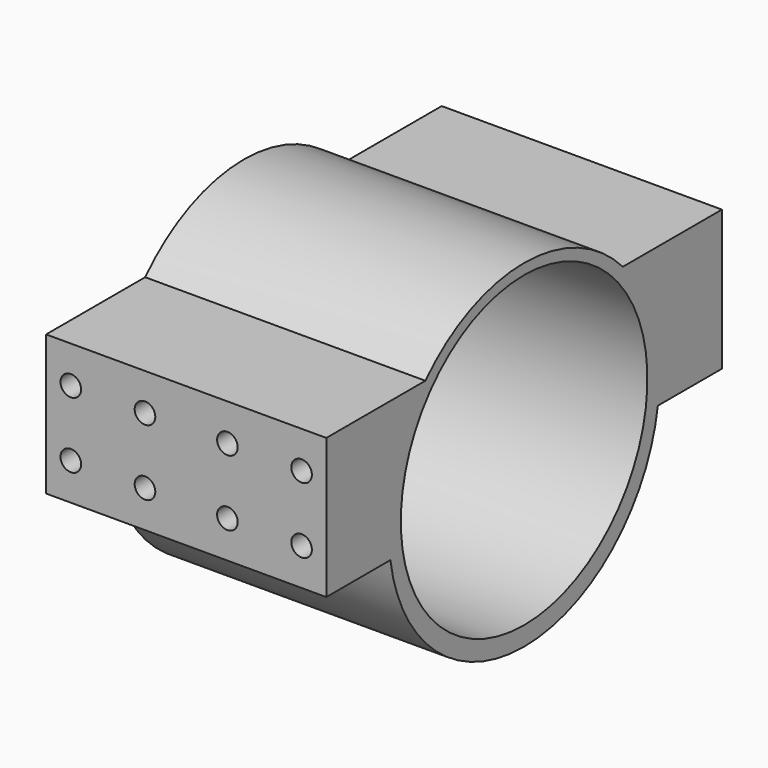
from build123d import *

# Parameters (mm, degrees)
CYLINDER341_R             = 1.25
CYLINDER341_DEPTH         = 10
CYLINDER342_R             = 1.25
CYLINDER342_DEPTH         = 10
CYLINDER343_R             = 1.25
CYLINDER343_DEPTH         = 10
CYLINDER344_R             = 1.25
CYLINDER344_DEPTH         = 10
CYLINDER346_R             = 1.25
CYLINDER346_DEPTH         = 10
CYLINDER345_R             = 1.25
CYLINDER345_DEPTH         = 10
CYLINDER339_R             = 1.25
CYLINDER339_DEPTH         = 10
CYLINDER340_R             = 1.25
CYLINDER340_DEPTH         = 10
BOX234_W                  = 10
BOX234_H                  = 10
BOX234_DEPTH              = 10
CYLINDER335_R             = 1.6
CYLINDER335_DEPTH         = 10
CYLINDER336_R             = 1.6
CYLINDER336_DEPTH         = 10
FUSION285_PLACEMENT_ANGLE = 120
CYLINDER338_R             = 1.6
CYLINDER338_DEPTH         = 10
CYLINDER337_R             = 1.6
CYLINDER337_DEPTH         = 10
CYLINDER333_R             = 1.6
CYLINDER333_DEPTH         = 10
CYLINDER334_R             = 1.6
CYLINDER334_DEPTH         = 10
FUSION284_PLACEMENT_ANGLE = 60
FUSION287_PLACEMENT_ANGLE = 30
CUT242_PLACEMENT_ANGLE    = 90
CYLINDER332_R             = 18.7
CYLINDER332_DEPTH         = 75
CYLINDER331_R             = 7
CYLINDER331_DEPTH         = 10
CYLINDER330_R             = 20.5
CYLINDER330_DEPTH         = 34
BOX233_W                  = 34
BOX233_H                  = 60
BOX233_DEPTH              = 17


with BuildPart() as cylinder341:
    # Cylinder341 → Cylinder341 (new body)
    with BuildSketch(Plane(origin=(87.5, 61, 14), x_dir=(1, 0, 0), z_dir=(0, -1, 0))):
        Circle(CYLINDER341_R)
    extrude(amount=CYLINDER341_DEPTH)


with BuildPart() as cylinder342:
    # Cylinder342 → Cylinder342 (new body)
    with BuildSketch(Plane(origin=(87.5, 11, 14), x_dir=(1, 0, 0), z_dir=(0, -1, 0))):
        Circle(CYLINDER342_R)
    extrude(amount=CYLINDER342_DEPTH)


with BuildPart() as fusion295:
    # Fusion295 base: copy of Cylinder342
    add(cylinder342.part)

    # Fusion295: union Cylinder341
    add(cylinder341.part)


with BuildPart() as fusion295_1:
    # Fusion295 placement: moved
    add(fusion295.part.moved(Location((251.5, 0, 0))))


with BuildPart() as cylinder343:
    # Cylinder343 → Cylinder343 (new body)
    with BuildSketch(Plane(origin=(87.5, 61, 14), x_dir=(1, 0, 0), z_dir=(0, -1, 0))):
        Circle(CYLINDER343_R)
    extrude(amount=CYLINDER343_DEPTH)


with BuildPart() as cylinder344:
    # Cylinder344 → Cylinder344 (new body)
    with BuildSketch(Plane(origin=(87.5, 11, 14), x_dir=(1, 0, 0), z_dir=(0, -1, 0))):
        Circle(CYLINDER344_R)
    extrude(amount=CYLINDER344_DEPTH)


with BuildPart() as fusion296:
    # Fusion296 base: copy of Cylinder344
    add(cylinder344.part)

    # Fusion296: union Cylinder343
    add(cylinder343.part)


with BuildPart() as fusion296_1:
    # Fusion296 placement: moved
    add(fusion296.part.moved(Location((261.5, 0, 0))))


with BuildPart() as cylinder346:
    # Cylinder346 → Cylinder346 (new body)
    with BuildSketch(Plane(origin=(87.5, 61, 14), x_dir=(1, 0, 0), z_dir=(0, -1, 0))):
        Circle(CYLINDER346_R)
    extrude(amount=CYLINDER346_DEPTH)


with BuildPart() as cylinder345:
    # Cylinder345 → Cylinder345 (new body)
    with BuildSketch(Plane(origin=(87.5, 11, 14), x_dir=(1, 0, 0), z_dir=(0, -1, 0))):
        Circle(CYLINDER345_R)
    extrude(amount=CYLINDER345_DEPTH)


with BuildPart() as fusion294:
    # Fusion294 base: copy of Cylinder345
    add(cylinder345.part)

    # Fusion294: union Cylinder346
    add(cylinder346.part)


with BuildPart() as fusion294_1:
    # Fusion294 placement: moved
    add(fusion294.part.moved(Location((270.5, 0, 0))))


with BuildPart() as cylinder339:
    # Cylinder339 → Cylinder339 (new body)
    with BuildSketch(Plane(origin=(87.5, 61, 14), x_dir=(1, 0, 0), z_dir=(0, -1, 0))):
        Circle(CYLINDER339_R)
    extrude(amount=CYLINDER339_DEPTH)


with BuildPart() as cylinder340:
    # Cylinder340 → Cylinder340 (new body)
    with BuildSketch(Plane(origin=(87.5, 11, 14), x_dir=(1, 0, 0), z_dir=(0, -1, 0))):
        Circle(CYLINDER340_R)
    extrude(amount=CYLINDER340_DEPTH)


with BuildPart() as fusion293:
    # Fusion297 base: copy of Cylinder340
    add(cylinder340.part)

    # Fusion297: union Cylinder339
    add(cylinder339.part)


with BuildPart() as fusion293_1:
    # Fusion297 placement: moved
    add(fusion293.part.moved(Location((242.5, 0, 0))))

    # Fusion293: union Fusion295, Fusion296, Fusion294
    add(fusion295_1.part)
    add(fusion296_1.part)
    add(fusion294_1.part)


with BuildPart() as fusion293_2:
    # Fusion293 placement: moved
    add(fusion293_1.part.moved(Location((0, 0, -8))))


with BuildPart() as fusion289:
    # Fusion289 base: copy of Cylinder342
    add(cylinder342.part)

    # Fusion289: union Cylinder341
    add(cylinder341.part)


with BuildPart() as fusion289_1:
    # Fusion289 placement: moved
    add(fusion289.part.moved(Location((251.5, 0, 0))))


with BuildPart() as fusion290:
    # Fusion290 base: copy of Cylinder344
    add(cylinder344.part)

    # Fusion290: union Cylinder343
    add(cylinder343.part)


with BuildPart() as fusion290_1:
    # Fusion290 placement: moved
    add(fusion290.part.moved(Location((261.5, 0, 0))))


with BuildPart() as fusion291:
    # Fusion291 base: copy of Cylinder345
    add(cylinder345.part)

    # Fusion291: union Cylinder346
    add(cylinder346.part)


with BuildPart() as fusion291_1:
    # Fusion291 placement: moved
    add(fusion291.part.moved(Location((270.5, 0, 0))))


with BuildPart() as fusion298:
    # Fusion288 base: copy of Cylinder340
    add(cylinder340.part)

    # Fusion288: union Cylinder339
    add(cylinder339.part)


with BuildPart() as fusion298_1:
    # Fusion288 placement: moved
    add(fusion298.part.moved(Location((242.5, 0, 0))))

    # Fusion292: union Fusion289, Fusion290, Fusion291
    add(fusion289_1.part)
    add(fusion290_1.part)
    add(fusion291_1.part)

    # Fusion298: union Fusion293
    add(fusion293_2.part)


with BuildPart() as cube314:
    # Box234 → Box234 (new body)
    with BuildSketch(Plane.XY):
        with Locations((5, 5)):
            Rectangle(BOX234_W, BOX234_H)
    extrude(amount=BOX234_DEPTH)


with BuildPart() as cylinder335:
    # Cylinder335 → Cylinder335 (new body)
    with BuildSketch(Plane(origin=(15.5, 0, 0), x_dir=(1, 0, 0), z_dir=(0, 0, 1))):
        Circle(CYLINDER335_R)
    extrude(amount=CYLINDER335_DEPTH)


with BuildPart() as fusion285:
    # Cylinder336 → Cylinder336 (new body)
    with BuildSketch(Plane(origin=(-15.5, 0, 0), x_dir=(1, 0, 0), z_dir=(0, 0, 1))):
        Circle(CYLINDER336_R)
    extrude(amount=CYLINDER336_DEPTH)

    # Fusion285: union Cylinder335
    add(cylinder335.part)


with BuildPart() as fusion285_1:
    # Fusion285 placement: moved
    add(fusion285.part.rotate(Axis((0, 0, 0), (0, 0, 1)), FUSION285_PLACEMENT_ANGLE))


with BuildPart() as cylinder338:
    # Cylinder338 → Cylinder338 (new body)
    with BuildSketch(Plane(origin=(15.5, 0, 0), x_dir=(1, 0, 0), z_dir=(0, 0, 1))):
        Circle(CYLINDER338_R)
    extrude(amount=CYLINDER338_DEPTH)


with BuildPart() as fusion286:
    # Cylinder337 → Cylinder337 (new body)
    with BuildSketch(Plane(origin=(-15.5, 0, 0), x_dir=(1, 0, 0), z_dir=(0, 0, 1))):
        Circle(CYLINDER337_R)
    extrude(amount=CYLINDER337_DEPTH)

    # Fusion286: union Cylinder338
    add(cylinder338.part)


with BuildPart() as cylinder333:
    # Cylinder333 → Cylinder333 (new body)
    with BuildSketch(Plane(origin=(15.5, 0, 0), x_dir=(1, 0, 0), z_dir=(0, 0, 1))):
        Circle(CYLINDER333_R)
    extrude(amount=CYLINDER333_DEPTH)


with BuildPart() as holes002:
    # Cylinder334 → Cylinder334 (new body)
    with BuildSketch(Plane(origin=(-15.5, 0, 0), x_dir=(1, 0, 0), z_dir=(0, 0, 1))):
        Circle(CYLINDER334_R)
    extrude(amount=CYLINDER334_DEPTH)

    # Fusion284: union Cylinder333
    add(cylinder333.part)


with BuildPart() as holes002_1:
    # Fusion284 placement: moved
    add(holes002.part.rotate(Axis((0, 0, 0), (0, 0, 1)), FUSION284_PLACEMENT_ANGLE))

    # Fusion287: union Fusion285, Fusion286
    add(fusion285_1.part)
    add(fusion286.part)


with BuildPart() as holes002_2:
    # Fusion287 placement: moved
    add(holes002_1.part.rotate(Axis((0, 0, 0), (0, 0, 1)), FUSION287_PLACEMENT_ANGLE))

    # Cut242: cut Cube314
    add(cube314.part, mode=Mode.SUBTRACT)


with BuildPart() as holes002_3:
    # Cut242 placement: moved
    add(holes002_2.part.moved(Location((327, 31, 5))).rotate(Axis((327, 31, 5), (0, 1, 0)), CUT242_PLACEMENT_ANGLE))


with BuildPart() as cylinder332:
    # Cylinder332 → Cylinder332 (new body)
    with BuildSketch(Plane(origin=(336, 31, 5), x_dir=(0, 0, -1), z_dir=(1, 0, 0))):
        Circle(CYLINDER332_R)
    extrude(amount=CYLINDER332_DEPTH)


with BuildPart() as cylinder331:
    # Cylinder331 → Cylinder331 (new body)
    with BuildSketch(Plane(origin=(327, 31, 12), x_dir=(0, 0, -1), z_dir=(1, 0, 0))):
        Circle(CYLINDER331_R)
    extrude(amount=CYLINDER331_DEPTH)


with BuildPart() as cylinder330:
    # Cylinder330 → Cylinder330 (new body)
    with BuildSketch(Plane(origin=(326, 31, 4.5), x_dir=(0, 0, -1), z_dir=(1, 0, 0))):
        Circle(CYLINDER330_R)
    extrude(amount=CYLINDER330_DEPTH)


with BuildPart() as motor_support001:
    # Box233 → Box233 (new body)
    with BuildSketch(Plane(origin=(326, 1, 1.5), x_dir=(1, 0, 0), z_dir=(0, 0, 1))):
        with Locations((17, 30)):
            Rectangle(BOX233_W, BOX233_H)
    extrude(amount=BOX233_DEPTH)

    # Fusion283: union Cylinder330
    add(cylinder330.part)


with BuildPart() as motor_support001_1:
    # Fusion283 placement: moved
    add(motor_support001.part.moved(Location((1, 0, 0))))

    # Cut240: cut Cylinder331
    add(cylinder331.part, mode=Mode.SUBTRACT)

    # Cut241: cut Cylinder332
    add(cylinder332.part, mode=Mode.SUBTRACT)

    # Cut243: cut holes002
    add(holes002_3.part, mode=Mode.SUBTRACT)

    # Cut244: cut Fusion298
    add(fusion298_1.part, mode=Mode.SUBTRACT)


with BuildPart() as motor_support001_2:
    # Cut244 placement: moved
    add(motor_support001_1.part.moved(Location((86, 0, 0))))


solid = motor_support001_2.part
